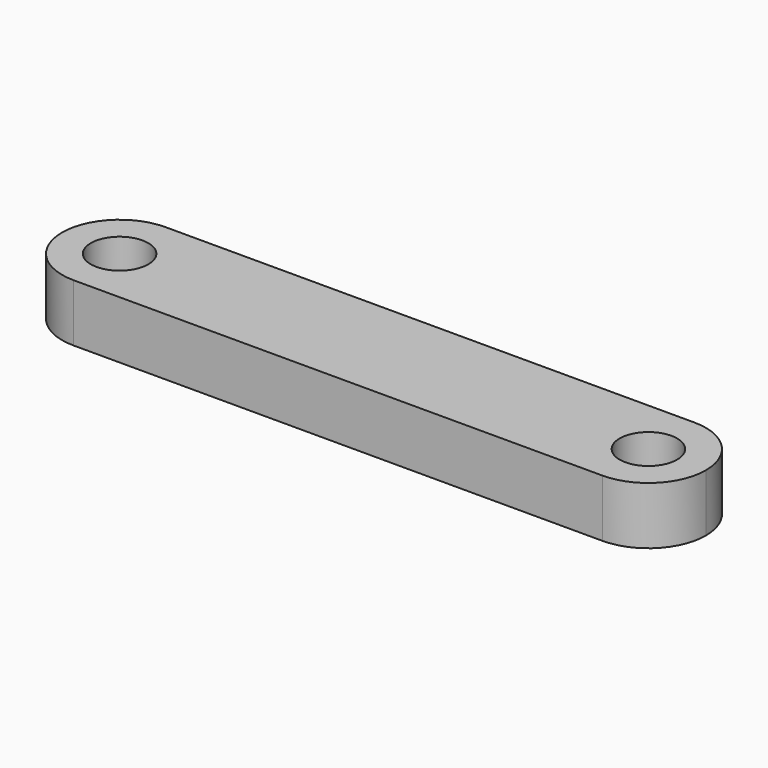
from build123d import *

# Parameters (mm, degrees)
F0_R     = 0.125
F1_DEPTH = 0.25


with BuildPart() as f1:
    # F0 (on Top) → F1 (new body)
    with BuildSketch(Plane.XY):
        with BuildLine():
            Line((0, 0.25), (-2.3, 0.25))
            ThreePointArc((-2.3, 0.25), (-2.476777, 0.176777), (-2.55, 0))
            ThreePointArc((-2.55, 0), (-2.476777, -0.176777), (-2.3, -0.25))
            Line((-2.3, -0.25), (0, -0.25))
            ThreePointArc((0, -0.25), (0.176777, -0.176777), (0.25, 0))
            ThreePointArc((0.25, 0), (0.176777, 0.176777), (0, 0.25))
        make_face()
        with Locations((-2.3, 0)):
            Circle(F0_R, mode=Mode.SUBTRACT)
        Circle(F0_R, mode=Mode.SUBTRACT)
    extrude(amount=F1_DEPTH)


solid = f1.part
